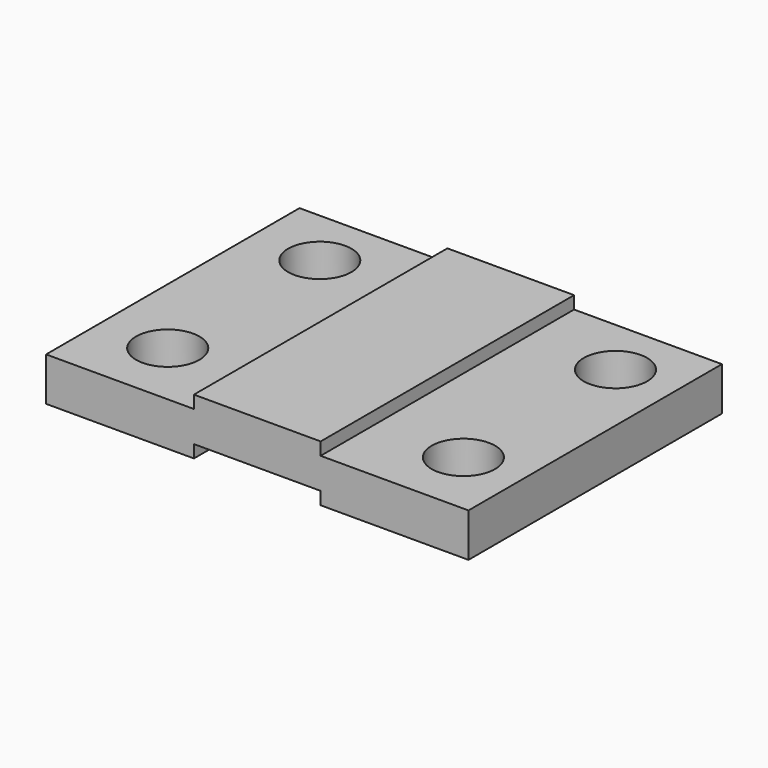
from build123d import *

# Parameters (mm, degrees)
F1_DEPTH = 75
F4_DEPTH = 75.001
F7_DEPTH = 75
F9_D     = 15


with BuildPart() as f1:
    # F0 (on Front) → F1 (new body)
    with BuildSketch(Plane.XZ):
        Polygon((-50, 0), (0, 0), (50, 0), (50, 10.31), (-50, 10.31), align=None)
    extrude(amount=-F1_DEPTH)

    # F3 (on offset) → F4 (cut, through all)
    with BuildSketch(Plane.XZ):
        Polygon((-15, 0), (0, 0), (15, 0), (15, 3), (-15, 3), align=None)
    extrude(amount=-F4_DEPTH, mode=Mode.SUBTRACT)

    # F6 (on offset) → F7 (join)
    with BuildSketch(Plane.XZ):
        Polygon((-15, 10.31), (0, 10.31), (15, 10.31), (15, 13.31), (-15, 13.31), align=None)
    extrude(amount=-F7_DEPTH)

    # F9 (through all)
    with Locations(Plane(origin=(0, 0, 0), x_dir=(1, 0, 0), z_dir=(0, 0, -1))):
        with Locations((-34, -61), (-34, -16), (36, -61), (36, -16)):
            Hole(F9_D / 2)


solid = f1.part
